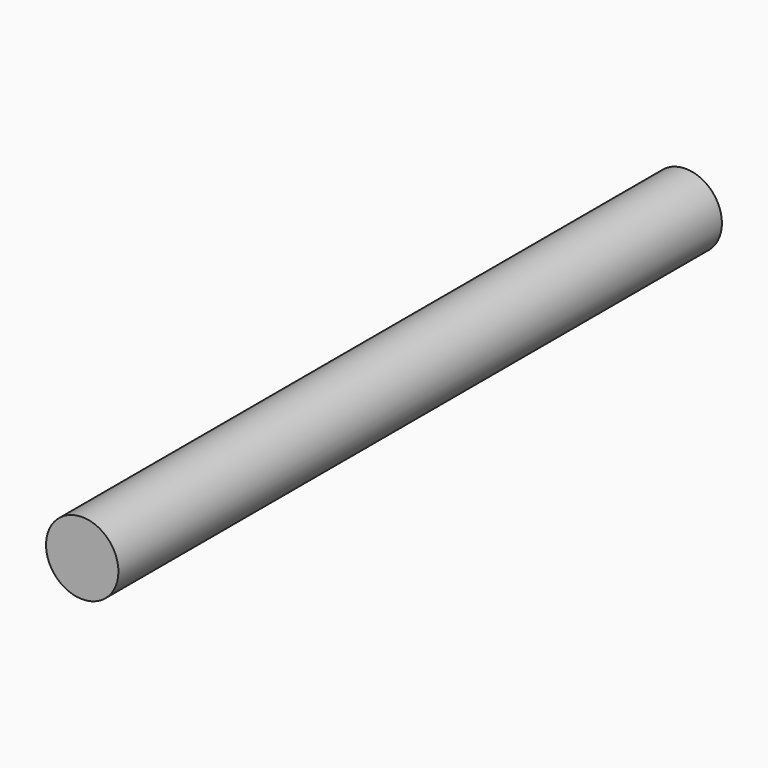
from build123d import *

# Parameters (mm, degrees)
F0_R     = 47.037606
F1_DEPTH = 980
F2_R     = 25.753318
F3_DEPTH = 25
F5_DEPTH = 25


with BuildPart() as f1:
    # F0 (on Front) → F1 (new body)
    with BuildSketch(Plane.XZ):
        Circle(F0_R)
    extrude(amount=F1_DEPTH)

    # F2 (on Front) → F3 (join)
    with BuildSketch(Plane.XZ):
        Circle(F2_R)
    extrude(amount=F3_DEPTH)

    # F4 (on Top) → F5 (cut)
    with BuildSketch(Plane.XY):
        with BuildLine():
            add(Edge.make_bspline(
                [(0, 70.394285), (-52.129742, 70.394285), (-26.064871, -35.197143), (0, -140.78857), (26.064871, -35.197143), (52.129742, 70.394285), (0, 70.394285)],
                knots=[0, 0, 0, 2.094395, 2.094395, 4.18879, 4.18879, 6.283185, 6.283185, 6.283185], degree=2, weights=[1, 0.5, 1, 0.5, 1, 0.5, 1]))
        make_face()
    extrude(amount=-F5_DEPTH, mode=Mode.SUBTRACT)


solid = f1.part
